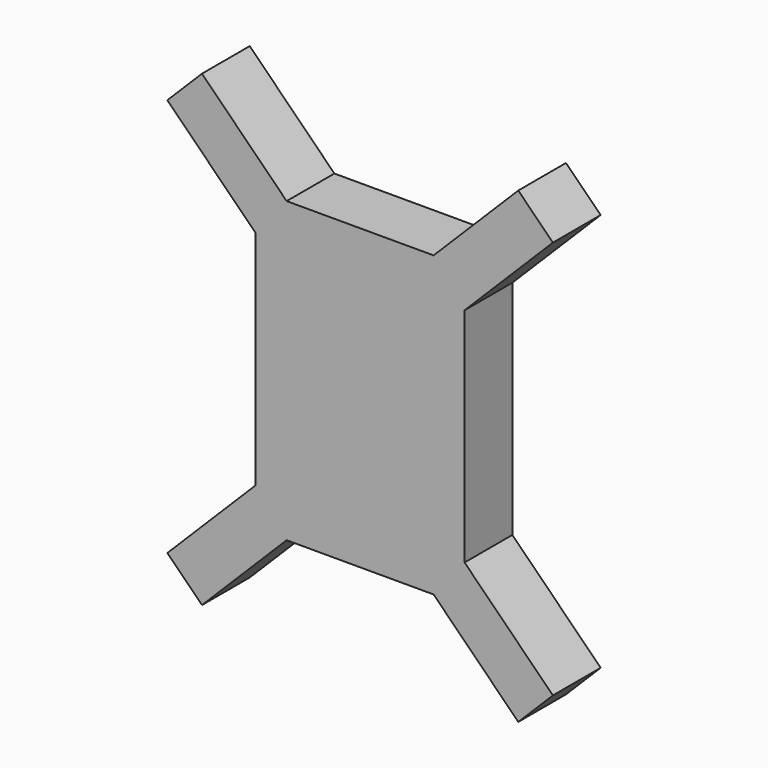
from build123d import *

# Parameters (mm, degrees)
F1_DEPTH = 6.35


with BuildPart() as f1:
    # F0 (on Front) → F1 (new body, symmetric)
    with BuildSketch(Plane.XZ):
        Polygon((12.08981, 28.207475), (15.632335, 31.75), (-15.632335, 31.75), (-12.08981, 28.207475), (-19.45362, 20.843665), (-22.225, 23.615045), (-22.225, -23.615045), (-19.45362, -20.843665), (-12.08981, -28.207475), (-15.632335, -31.75), (15.632335, -31.75), (12.08981, -28.207475), (19.45362, -20.843665), (22.225, -23.615045), (22.225, 23.615045), (19.45362, 20.843665), align=None)
        Polygon((-22.225, 31.75), (-15.632335, 31.75), (-33.642425, 49.76009), (-41.006235, 42.39628), (-22.225, 23.615045), align=None)
        Polygon((41.006235, -42.39628), (22.225, -23.615045), (22.225, -31.75), (15.632335, -31.75), (33.642425, -49.76009), align=None)
        Polygon((-22.225, -31.75), (-22.225, -23.615045), (-41.006235, -42.39628), (-33.642425, -49.76009), (-15.632335, -31.75), align=None)
        Polygon((15.632335, 31.75), (22.225, 31.75), (22.225, 23.615045), (41.006235, 42.39628), (33.642425, 49.76009), align=None)
        Polygon((22.225, -31.75), (22.225, -23.615045), (19.45362, -20.843665), (12.08981, -28.207475), (15.632335, -31.75), align=None)
        Polygon((-19.45362, -20.843665), (-22.225, -23.615045), (-22.225, -31.75), (-15.632335, -31.75), (-12.08981, -28.207475), align=None)
        Polygon((-12.08981, 28.207475), (-15.632335, 31.75), (-22.225, 31.75), (-22.225, 23.615045), (-19.45362, 20.843665), align=None)
        Polygon((22.225, 23.615045), (22.225, 31.75), (15.632335, 31.75), (12.08981, 28.207475), (19.45362, 20.843665), align=None)
    extrude(amount=F1_DEPTH, both=True)


solid = f1.part
